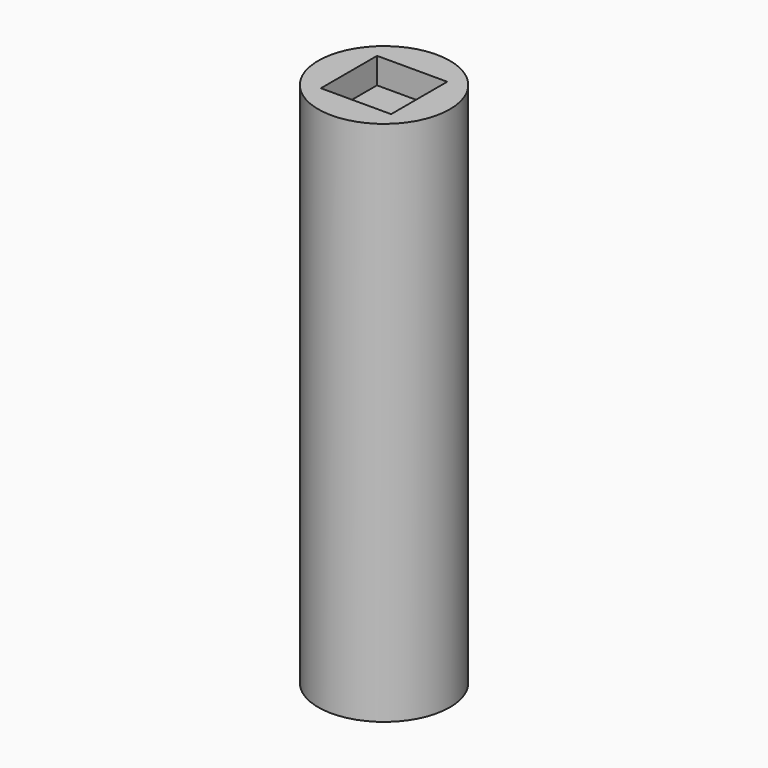
from build123d import *

# Parameters (mm, degrees)
F0_R     = 190.5
F1_DEPTH = 762
F2_W     = 203.2
F2_H     = 203.2
F3_DEPTH = 76.2
F3_TAPER = -1


with BuildPart() as f1:
    # F0 (on Top) → F1 (new body)
    with BuildSketch(Plane.XY):
        Circle(F0_R)
    extrude(amount=F1_DEPTH)

    # F2 (on face) → F3 (cut)
    with BuildSketch(Plane.XY.offset(762)):
        Rectangle(F2_W, F2_H)
    extrude(amount=-F3_DEPTH, taper=F3_TAPER, mode=Mode.SUBTRACT)

    # F4: F1 across face


with BuildPart() as f1_1:
    add(f1.part)
    add(f1.part.mirror(Plane(origin=(0, 0, 0), x_dir=(1, 0, 0), z_dir=(0, 0, -1))))


solid = f1_1.part
